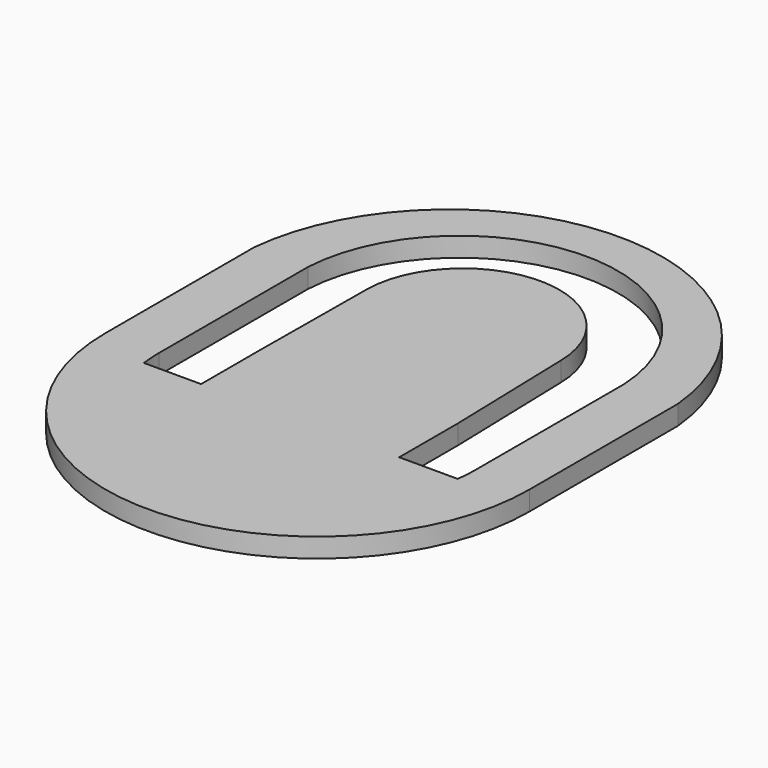
from build123d import *

# Parameters (mm, degrees)
F0_W     = 9.6774
F0_H     = 33.528
F0_W_2   = 6.7188069224
F0_H_2   = 4.5997034758
F0_W_3   = 23.2836488279
F0_W_4   = 5.7477712986
F0_H_3   = 13.2390651852
F1_DEPTH = 3.5


with BuildPart() as f1:
    # F0 (on Top) → F1 (new body)
    with BuildSketch(Plane.XY):
        with Locations((-34.2135546392, 25.1117386506)):
            Rectangle(F0_W, F0_H)
        with BuildLine():
            ThreePointArc((-29.3748546392, 41.8757386506), (-0.8171033114, 68.9673107238), (27.7406480163, 41.8757386506))
            Line((27.7406480163, 41.8757386506), (37.4212376773, 41.8757386506))
            ThreePointArc((37.4212376773, 41.8757386506), (-0.8155084809, 76.4992777712), (-39.0522546392, 41.8757386506))
            Line((-39.0522546392, 41.8757386506), (-29.3748546392, 41.8757386506))
        make_face()
        Polygon((27.7406480163, 41.8757386506), (27.7406480163, 8.341178298), (37.4212376773, 8.3477386506), (37.4212376773, 41.8757386506), align=None)
        with BuildLine():
            ThreePointArc((27.7406480163, 8.341178298), (27.6786104385, 6.4663822858), (27.4936267406, 4.5997034758))
            ThreePointArc((27.4936267406, 4.5997034758), (27.0884181011, 2.2792068562), (26.4933427197, 0))
            ThreePointArc((26.4933427197, 0), (-0.8171029347, -20.210013054), (-28.127548589, 0))
            ThreePointArc((-28.127548589, 0), (-28.7226239704, 2.2792068562), (-29.1278326099, 4.5997034758))
            ThreePointArc((-29.1278326099, 4.5997034758), (-29.3130322146, 6.4696553488), (-29.3748546392, 8.3477386506))
            Line((-29.3748546392, 8.3477386506), (-39.0522546392, 8.3477386506))
            ThreePointArc((-39.0522546392, 8.3477386506), (-0.8155084809, -29.8890075077), (37.4212376773, 8.3477386506))
            Line((37.4212376773, 8.3477386506), (27.7406480163, 8.341178298))
        make_face()
        with BuildLine():
            Line((27.4936267406, 4.5997034758), (16.9359110296, 4.5997034758))
            Line((16.9359110296, 4.5997034758), (16.9359110296, 0))
            Line((16.9359110296, 0), (26.4933427197, 0))
            ThreePointArc((26.4933427197, 0), (27.0884181011, 2.2792068562), (27.4936267406, 4.5997034758))
        make_face()
        with Locations((13.5765075684, 2.2998517379)):
            Rectangle(F0_W_2, F0_H_2)
        with Locations((-1.4247203068, 2.2998517379)):
            Rectangle(F0_W_3, F0_H_2)
        with Locations((-15.9404303701, 2.2998517379)):
            Rectangle(F0_W_4, F0_H_2)
        with BuildLine():
            Line((-18.8143160194, 0), (-18.8143160194, 4.5997034758))
            Line((-18.8143160194, 4.5997034758), (-29.1278326099, 4.5997034758))
            ThreePointArc((-29.1278326099, 4.5997034758), (-28.7226239704, 2.2792068562), (-28.127548589, 0))
            Line((-28.127548589, 0), (-18.8143160194, 0))
        make_face()
        with BuildLine():
            ThreePointArc((-13.0665447208, 41.155968661), (-1.5272068761, 54.4534372667), (10.792715475, 41.8757386506))
            Line((10.792715475, 41.8757386506), (10.2171041071, 17.838768661))
            Line((10.2171041071, 17.838768661), (16.9359110296, 17.838768661))
            Line((16.9359110296, 17.838768661), (16.2751674652, 41.8757386506))
            ThreePointArc((16.2751674652, 41.8757386506), (-1.1801254004, 59.0346097607), (-18.6354182661, 41.8757386506))
            Line((-18.6354182661, 41.8757386506), (-18.8143160194, 17.838768661))
            Line((-18.8143160194, 17.838768661), (-13.0665447208, 17.838768661))
            Line((-13.0665447208, 17.838768661), (-13.0665447208, 41.155968661))
        make_face()
        with Locations((13.5765075684, 11.2192360684)):
            Rectangle(F0_W_2, F0_H_3)
        with Locations((-15.9404303701, 11.2192360684)):
            Rectangle(F0_W_4, F0_H_3)
        with BuildLine():
            Line((10.2171041071, 17.838768661), (10.792715475, 41.8757386506))
            ThreePointArc((10.792715475, 41.8757386506), (-1.5272068761, 54.4534372667), (-13.0665447208, 41.155968661))
            Line((-13.0665447208, 41.155968661), (-13.0665447208, 17.838768661))
            Line((-13.0665447208, 17.838768661), (-13.0665447208, 4.5997034758))
            Line((-13.0665447208, 4.5997034758), (10.2171041071, 4.5997034758))
            Line((10.2171041071, 4.5997034758), (10.2171041071, 17.838768661))
        make_face()
        with BuildLine():
            Line((16.9359110296, 0), (10.2171041071, 0))
            Line((10.2171041071, 0), (-13.0665447208, 0))
            Line((-13.0665447208, 0), (-18.8143160194, 0))
            Line((-18.8143160194, 0), (-28.127548589, 0))
            ThreePointArc((-28.127548589, 0), (-0.8171029347, -20.210013054), (26.4933427197, 0))
            Line((26.4933427197, 0), (16.9359110296, 0))
        make_face()
    extrude(amount=F1_DEPTH)


solid = f1.part
